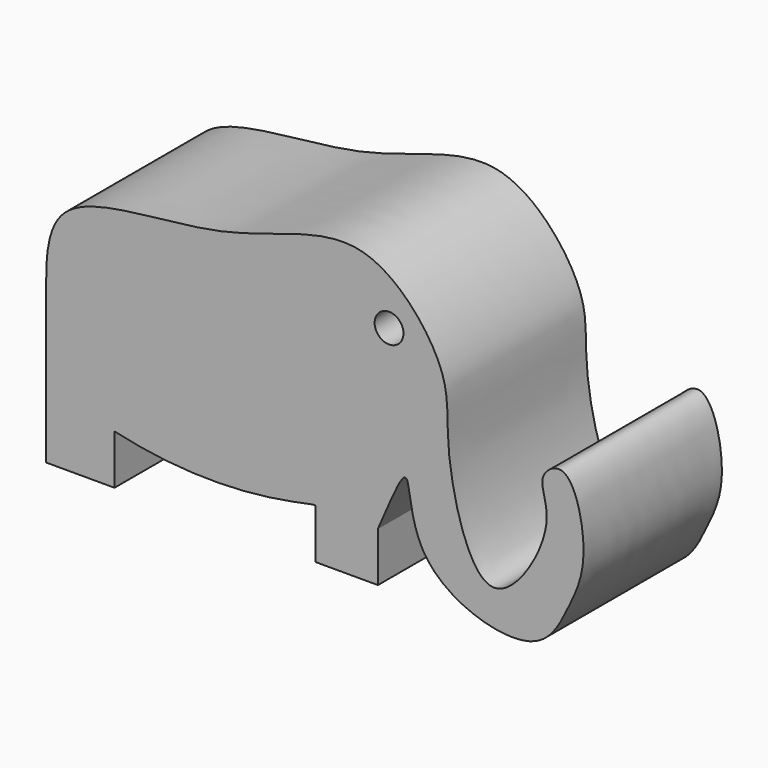
from build123d import *

# Parameters (mm, degrees)
F1_DEPTH = 30
F3_D     = 5


with BuildPart() as f1:
    # F0 (on Front) → F1 (new body)
    with BuildSketch(Plane.XZ):
        with BuildLine():
            Line((-30.4612312466, 14.5989311859), (-30.4612312466, 0))
            Line((-30.4612312466, 0), (-18.5947185919, 0))
            Line((-18.5947185919, 0), (-18.5947185919, 8.6226732377))
            add(Edge.make_bspline(
                [(-18.5947185919, 8.6226732377), (0, 4.2112302035), (15.1396823433, 8.8622591034), (16.1899321461, 8.6226952725), (16.2554135418, 8.6226732377)],
                knots=[0, 0, 0, 0, 0.9019847903, 1, 1, 1, 1], degree=3))
            Line((16.2554135418, 8.6226732377), (16.2554135418, 0))
            Line((16.2554135418, 0), (27.0922444761, 0))
            Line((27.0922444761, 0), (27.0922444761, 8.6226732377))
            add(Edge.make_bspline(
                [(-30.4612312466, 14.5989311859), (-30.4616757945, 19.3776663119), (-30.4614880763, 25.8324932892), (-30.4592699143, 44.1014946655), (1.3003019693, 42.3948582165), (24.4661994071, 55.9762854831), (40.5393329741, 36.0535176134), (37.9456631746, 25.6728080273), (45.3216923934, -3.0017389058), (58.9928905431, 19.2152373489), (53.9958266169, 25.542850097), (60.5819916566, 30.3511982055), (64.1197577459, 15.4248710197), (60.0741024714, 7.3676355634), (54.8974405881, -3.4881878983), (31.914185006, 3.6339520781), (33.1242515924, 23.7265144688), (28.9229793328, 12.6749318537), (27.0922444761, 8.6226732377)],
                knots=[0, 0, 0, 0, 0.0589309223, 0.1202610542, 0.2095702812, 0.2944171648, 0.3684606969, 0.4289317422, 0.5033341921, 0.5704675984, 0.6154737293, 0.648970163, 0.7072530358, 0.7607533606, 0.8131327545, 0.8883262308, 0.9450573837, 1, 1, 1, 1], degree=3))
        make_face()
    extrude(amount=F1_DEPTH)

    # F3 (through all)
    with Locations(Plane(origin=(0, 0, 0), x_dir=(1, 0, 0), z_dir=(0, 1, 0))):
        with Locations((29.0186386555, -39.8663133383)):
            Hole(F3_D / 2)


solid = f1.part
